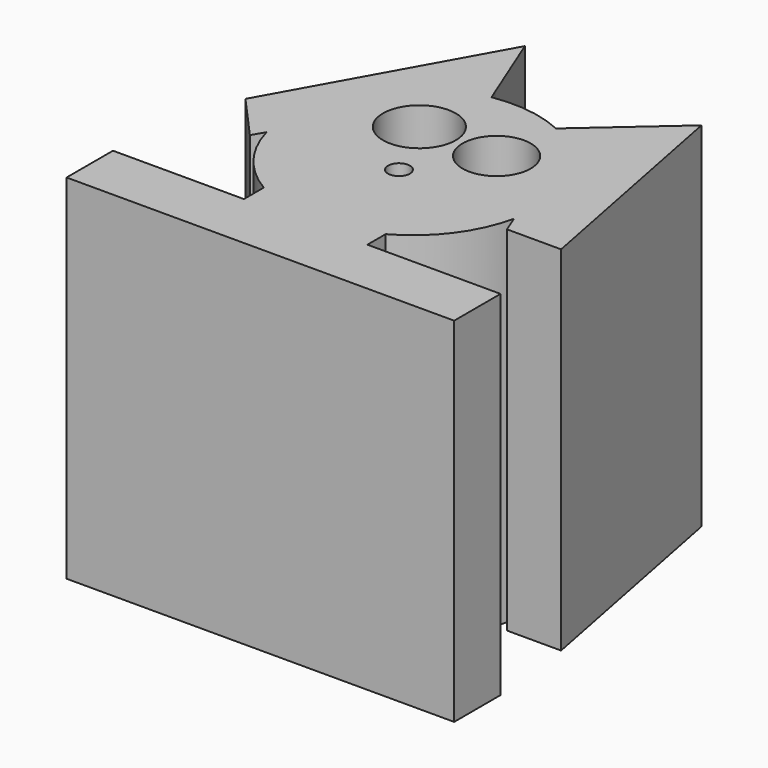
from build123d import *

# Parameters (mm, degrees)
F0_R     = 3.815165
F0_R_2   = 12.72436
F0_R_3   = 11.914866
F1_DEPTH = 61.71997


with BuildPart() as f1:
    # F0 (on Top) → F1 (new body, symmetric)
    with BuildSketch(Plane.XY):
        Polygon((-22.186497, -53.015659), (-54.091621, -53.015659), (-67.938353, -53.015659), (-67.938353, -73.286796), (67.512539, -73.286796), (67.489434, -53.015659), (20.967111, -53.015659), align=None)
        with BuildLine():
            Line((-22.186497, -44.352168), (-22.186497, -53.015659))
            Line((-22.186497, -53.015659), (20.967111, -53.015659))
            Line((20.967111, -53.015659), (20.967111, -45.047))
            ThreePointArc((20.967111, -45.047), (-0.701729, -50.415619), (-22.186497, -44.352168))
        make_face()
        with BuildLine():
            ThreePointArc((-42.052504, -18.299424), (-34.660477, -33.263368), (-22.186497, -44.352168))
            ThreePointArc((-22.186497, -44.352168), (-0.701729, -50.415619), (20.967111, -45.047))
            ThreePointArc((20.967111, -45.047), (34.948374, -32.881486), (42.611378, -16.006836))
            ThreePointArc((42.611378, -16.006836), (43.342832, -11.446167), (43.587566, -6.833702))
            ThreePointArc((43.587566, -6.833702), (38.545513, 13.516219), (24.585849, 29.158129))
            ThreePointArc((24.585849, 29.158129), (21.489345, 31.088375), (18.242246, 32.752865))
            ThreePointArc((18.242246, 32.752865), (5.862878, 36.357761), (-7.029507, 36.183293))
            ThreePointArc((-7.029507, 36.183293), (-8.799871, 35.856322), (-10.555224, 35.456523))
            ThreePointArc((-10.555224, 35.456523), (-37.607429, 15.201659), (-42.052504, -18.299424))
        make_face()
        with Locations((0, -13.019726)):
            Circle(F0_R, mode=Mode.SUBTRACT)
        with Locations((-11.483821, 10.258501)):
            Circle(F0_R_2, mode=Mode.SUBTRACT)
        with Locations((15.761618, 9.937936)):
            Circle(F0_R_3, mode=Mode.SUBTRACT)
        with BuildLine():
            Line((-44.51011, -22.493784), (-42.052504, -18.299424))
            ThreePointArc((-42.052504, -18.299424), (-37.607429, 15.201659), (-10.555224, 35.456523))
            Line((-10.555224, 35.456523), (-8.289508, 39.323387))
            Line((-8.289508, 39.323387), (-18.786313, 65.482855))
            Line((-18.786313, 65.482855), (-58.853593, -6.507952))
            Line((-58.853593, -6.507952), (-44.51011, -22.493784))
        make_face()
        with BuildLine():
            ThreePointArc((43.587566, -6.833702), (43.342832, -11.446167), (42.611378, -16.006836))
            Line((42.611378, -16.006836), (45.060731, -22.143964))
            Line((45.060731, -22.143964), (63.954249, -22.143964))
            Line((63.954249, -22.143964), (48.082457, 58.999361))
            Line((48.082457, 58.999361), (21.875692, 35.948728))
            Line((21.875692, 35.948728), (24.585849, 29.158129))
            ThreePointArc((24.585849, 29.158129), (38.545513, 13.516219), (43.587566, -6.833702))
        make_face()
        with BuildLine():
            Line((-8.289508, 39.323387), (-10.555224, 35.456523))
            ThreePointArc((-10.555224, 35.456523), (-8.799871, 35.856322), (-7.029507, 36.183293))
            Line((-7.029507, 36.183293), (-8.289508, 39.323387))
        make_face()
        with BuildLine():
            ThreePointArc((18.242246, 32.752865), (21.489345, 31.088375), (24.585849, 29.158129))
            Line((24.585849, 29.158129), (21.875692, 35.948728))
            Line((21.875692, 35.948728), (18.242246, 32.752865))
        make_face()
    extrude(amount=F1_DEPTH, both=True)


solid = f1.part
